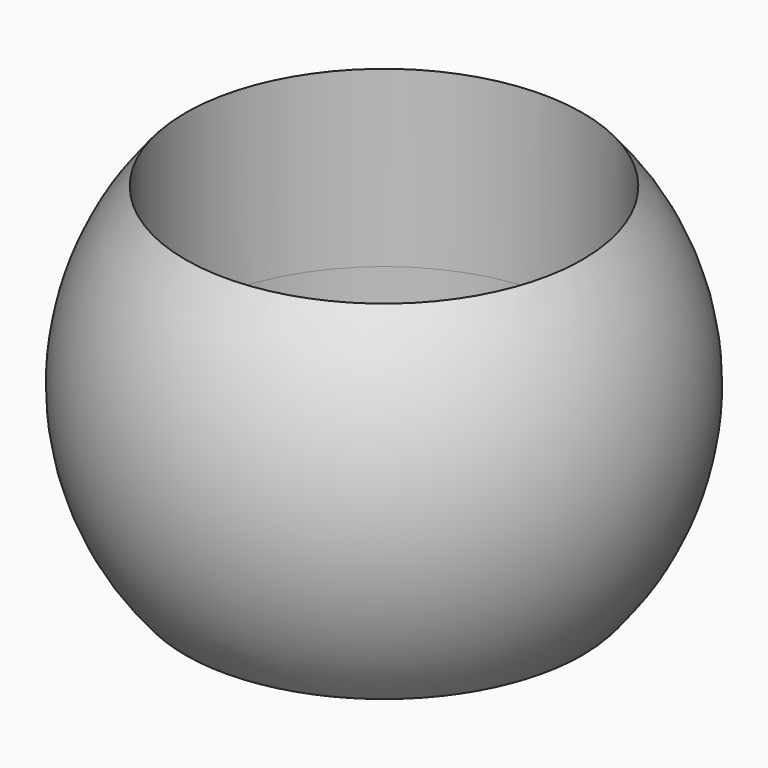
from build123d import *

# Parameters (mm, degrees)
F2_R          = 2.3876
F3_DEPTH      = 3.176
F3_DEPTH_BACK = 3.176


with BuildPart() as f1:
    # F0 (on Front) → F1 (revolve)
    with BuildSketch(Plane.XZ):
        with BuildLine():
            Line((-3.175, 0), (3.175, 0))
            ThreePointArc((3.175, 0), (0, 3.175), (-3.175, 0))
        make_face()
    revolve(axis=Axis((0, 0, 0), (1, 0, 0)))

    # F2 (on Top) → F3 (cut, two sides)
    with BuildSketch(Plane.XY) as f3_sk:
        Circle(F2_R)
    extrude(amount=F3_DEPTH, mode=Mode.SUBTRACT)
    extrude(f3_sk.sketch, amount=-F3_DEPTH_BACK, mode=Mode.SUBTRACT)


solid = f1.part
